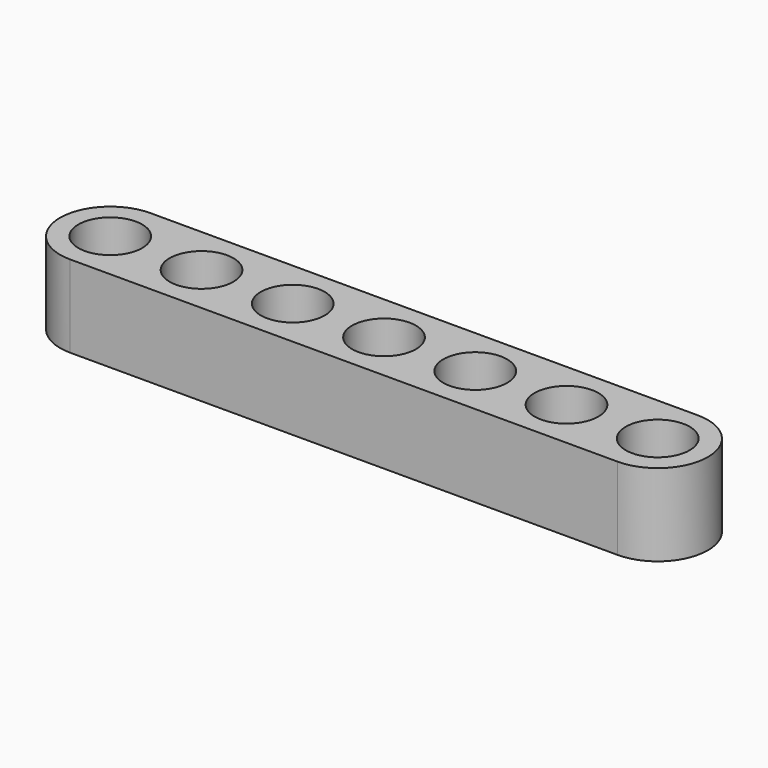
from build123d import *

# Parameters (mm, degrees)
CYLINDER002_R     = 1.75
CYLINDER002_DEPTH = 6.5
ARRAY_X_COUNT     = 7
ARRAY_X_PITCH     = 5
CYLINDER001_R     = 2.75
CYLINDER001_DEPTH = 4.5
BOX_W             = 30
BOX_H             = 5.5
BOX_DEPTH         = 4.5
CYLINDER_R        = 2.75
CYLINDER_DEPTH    = 4.5


with BuildPart() as array:
    # Cylinder002 → Cylinder002 (new body)
    with BuildSketch(Plane.XY.offset(-1)):
        Circle(CYLINDER002_R)
    extrude(amount=CYLINDER002_DEPTH)

    # Array X: Array ×7


with BuildPart() as array_1:
    add(array.part)
    with Locations(*[(i * ARRAY_X_PITCH, 0, 0) for i in range(1, ARRAY_X_COUNT)]):
        add(array.part)


with BuildPart() as cylinder001:
    # Cylinder001 → Cylinder001 (new body)
    with BuildSketch(Plane(origin=(30, 0, 0), x_dir=(1, 0, 0), z_dir=(0, 0, 1))):
        Circle(CYLINDER001_R)
    extrude(amount=CYLINDER001_DEPTH)


with BuildPart() as cube:
    # Box → Box (new body)
    with BuildSketch(Plane(origin=(0, -2.75, 0), x_dir=(1, 0, 0), z_dir=(0, 0, 1))):
        with Locations((15, 2.75)):
            Rectangle(BOX_W, BOX_H)
    extrude(amount=BOX_DEPTH)


with BuildPart() as cut:
    # Cylinder → Cylinder (new body)
    with BuildSketch(Plane.XY):
        Circle(CYLINDER_R)
    extrude(amount=CYLINDER_DEPTH)

    # Fusion: union Cylinder001, Cube
    add(cylinder001.part)
    add(cube.part)

    # Cut: cut Array
    add(array_1.part, mode=Mode.SUBTRACT)


solid = cut.part
